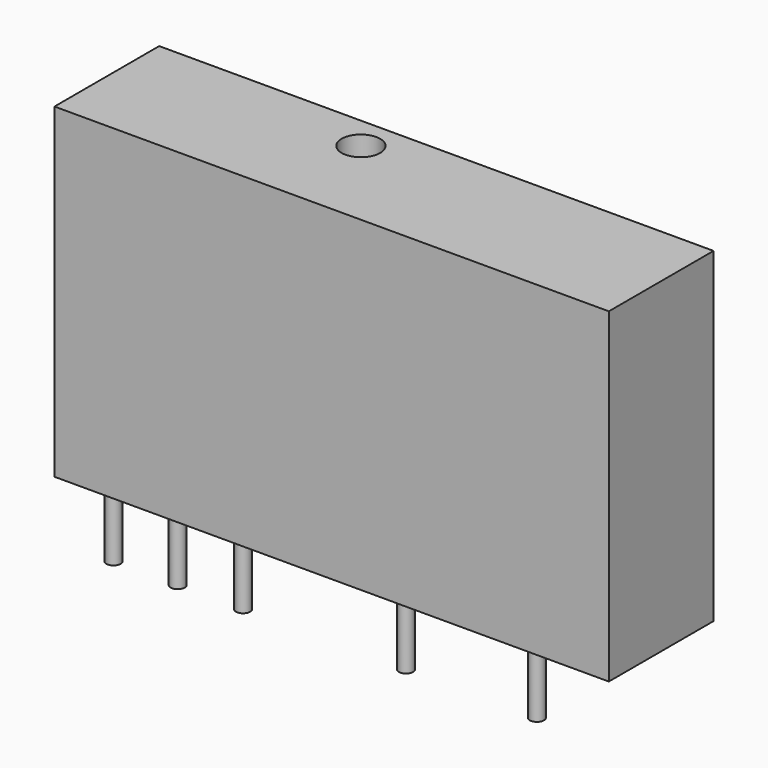
from build123d import *

# Parameters (mm, degrees)
SKETCH_W     = 43.2
SKETCH_H     = 10.2
PAD_DEPTH    = 25.4
SKETCH001_R  = 0.55
PAD001_DEPTH = 5.97
SKETCH002_R  = 1.5
POCKET_DEPTH = 25.401


with BuildPart() as part:
    # Sketch → Pad (new body)
    with BuildSketch(Plane.XY):
        Rectangle(SKETCH_W, SKETCH_H)
    extrude(amount=PAD_DEPTH)

    # Sketch001 (on Face5 of Pad) → Pad001 (join)
    with BuildSketch(Plane(origin=(0, 0, 0), x_dir=(1, 0, 0), z_dir=(0, 0, -1))):
        with Locations((14, 2.6)):
            Circle(SKETCH001_R)
        with Locations((3.8, 2.6)):
            Circle(SKETCH001_R)
        with Locations((-8.9, 2.6)):
            Circle(SKETCH001_R)
        with Locations((-14, 2.6)):
            Circle(SKETCH001_R)
        with Locations((-19, 2.6)):
            Circle(SKETCH001_R)
    extrude(amount=PAD001_DEPTH)

    # Sketch002 (on Face4 of Pad001) → Pocket (cut, through all)
    with BuildSketch(Plane(origin=(0, 0, 0), x_dir=(1, 0, 0), z_dir=(0, 0, -1))):
        with Locations((-3.8, -2.5)):
            Circle(SKETCH002_R)
    extrude(amount=-POCKET_DEPTH, mode=Mode.SUBTRACT)


solid = part.part
